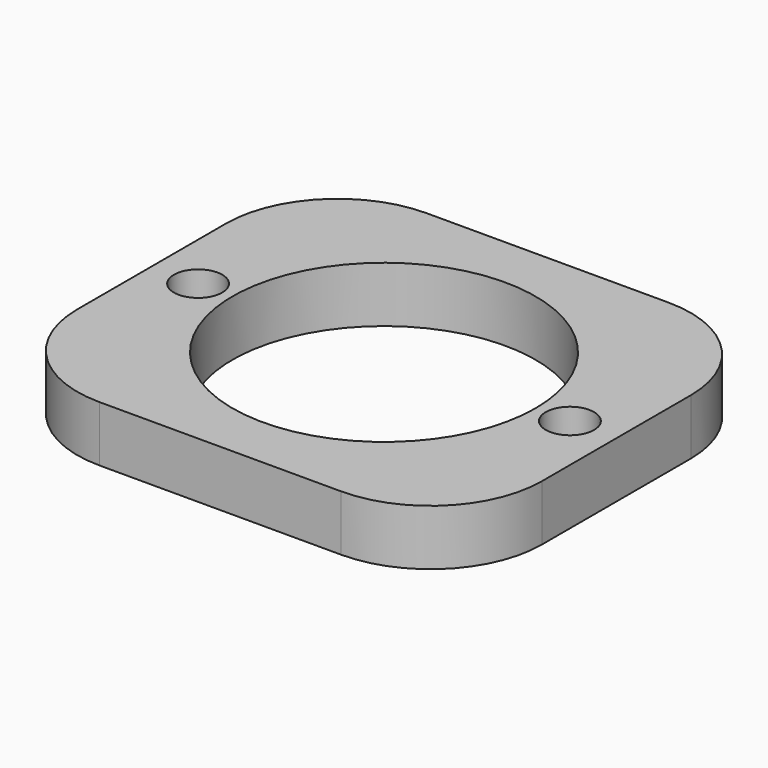
from build123d import *

# Parameters (mm, degrees)
SKETCH002_R  = 1.3
PAD002_DEPTH = 7
SKETCH001_R  = 8.15
PAD001_DEPTH = 7
PAD_DEPTH    = 3


with BuildPart() as screw_holes:
    # Sketch002 → Pad002 (new body)
    with BuildSketch(Plane.XY):
        with Locations((-10, 0)):
            Circle(SKETCH002_R)
        with Locations((10, 0)):
            Circle(SKETCH002_R)
    extrude(amount=PAD002_DEPTH)


with BuildPart() as lens_hole:
    # Sketch001 → Pad001 (new body)
    with BuildSketch(Plane.XY):
        Circle(SKETCH001_R)
    extrude(amount=PAD001_DEPTH)


with BuildPart() as cut001:
    # Sketch → Pad (new body)
    with BuildSketch(Plane.XY):
        with BuildLine():
            Line((-6.5, 11), (6.5, 11))
            ThreePointArc((12.5, 5), (10.742641, 9.242641), (6.5, 11))
            Line((12.5, 5), (12.5, -5))
            ThreePointArc((6.5, -11), (10.742641, -9.242641), (12.5, -5))
            Line((6.5, -11), (-6.5, -11))
            ThreePointArc((-12.5, -5), (-10.742641, -9.242641), (-6.5, -11))
            Line((-12.5, -5), (-12.5, 5))
            ThreePointArc((-6.5, 11), (-10.742641, 9.242641), (-12.5, 5))
        make_face()
    extrude(amount=PAD_DEPTH)

    # Cut: cut Lens Hole
    add(lens_hole.part, mode=Mode.SUBTRACT)

    # Cut001: cut Screw Holes
    add(screw_holes.part, mode=Mode.SUBTRACT)


solid = cut001.part
